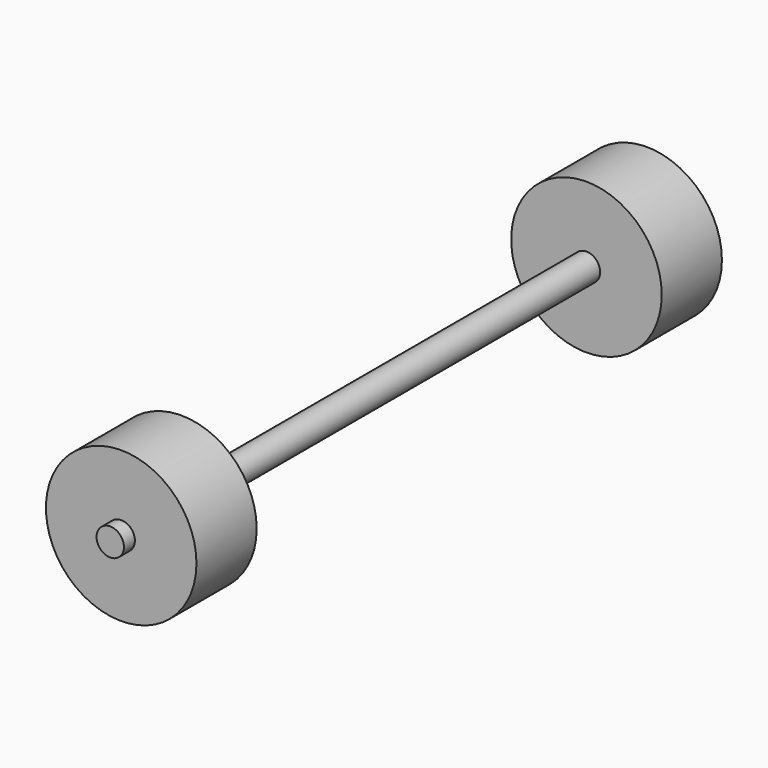
from build123d import *

# Parameters (mm, degrees)
CYLINDER002001001002_R             = 11
CYLINDER002001001002_DEPTH         = 11
CYLINDER002001001002_ROLL_ANGLE    = 90
CYLINDER002001001002001_R          = 11
CYLINDER002001001002001_DEPTH      = 11
CYLINDER002001001002001_ROLL_ANGLE = 90
CYLINDER002001002001_R             = 2
CYLINDER002001002001_DEPTH         = 100
CYLINDER002001002001_ROLL_ANGLE    = -90


with BuildPart() as wheel006:
    # Cylinder002001001002 → Cylinder002001001002 (new body)
    with BuildSketch(Plane.XY):
        Circle(CYLINDER002001001002_R)
    extrude(amount=CYLINDER002001001002_DEPTH)


with BuildPart() as wheel006_1:
    # Cylinder002001001002 roll: moved
    add(wheel006.part.rotate(Axis((0, 0, 0), (1, 0, 0)), CYLINDER002001001002_ROLL_ANGLE))


with BuildPart() as wheel006_2:
    # Cylinder002001001002 placement: moved
    add(wheel006_1.part.moved(Location((20, 78, 14))))


with BuildPart() as wheel007:
    # Cylinder002001001002001 → Cylinder002001001002001 (new body)
    with BuildSketch(Plane.XY):
        Circle(CYLINDER002001001002001_R)
    extrude(amount=CYLINDER002001001002001_DEPTH)


with BuildPart() as wheel007_1:
    # Cylinder002001001002001 roll: moved
    add(wheel007.part.rotate(Axis((0, 0, 0), (1, 0, 0)), CYLINDER002001001002001_ROLL_ANGLE))


with BuildPart() as wheel007_2:
    # Cylinder002001001002001 placement: moved
    add(wheel007_1.part.moved(Location((20, -7, 14))))


with BuildPart() as obj1:
    # Cylinder002001002001 → Cylinder002001002001 (new body)
    with BuildSketch(Plane.XY):
        Circle(CYLINDER002001002001_R)
    extrude(amount=CYLINDER002001002001_DEPTH)


with BuildPart() as obj1_1:
    # Cylinder002001002001 roll: moved
    add(obj1.part.rotate(Axis((0, 0, 0), (1, 0, 0)), CYLINDER002001002001_ROLL_ANGLE))


with BuildPart() as obj1_2:
    # Cylinder002001002001 placement: moved
    add(obj1_1.part.moved(Location((20, -20, 14))))

    # Fusion002001002002002001001: union Wheel006, Wheel007
    add(wheel006_2.part)
    add(wheel007_2.part)


with BuildPart() as obj1_3:
    # Fusion002001002002002001001 placement: moved
    add(obj1_2.part.moved(Location((93, 0, -24))))


solid = obj1_3.part
